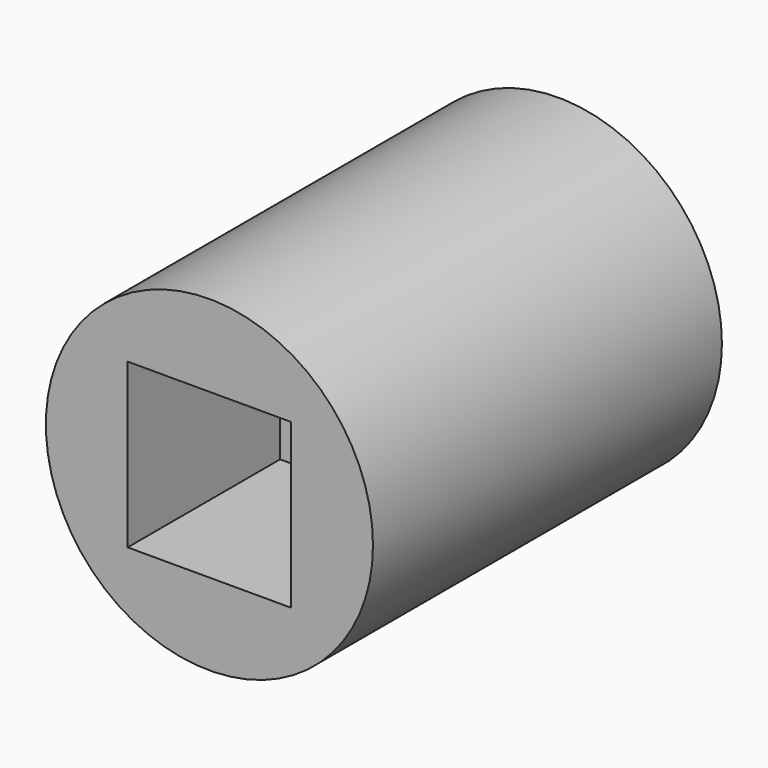
from build123d import *

# Parameters (mm, degrees)
F0_R     = 9.525
F1_DEPTH = 25.4
F3_DEPTH = 25.401
F4_DEPTH = 11.0998
F6_DEPTH = 9.525


with BuildPart() as f1:
    # F0 (on Front) → F1 (new body)
    with BuildSketch(Plane.XZ):
        Circle(F0_R)
    extrude(amount=-F1_DEPTH)

    # F2 (on Front) → F3 (cut, through all)
    with BuildSketch(Plane.XZ):
        with BuildLine():
            ThreePointArc((4.7625, 0), (3.367596, 3.367596), (0, 4.7625))
            ThreePointArc((0, 4.7625), (-3.367596, 3.367596), (-4.7625, 0))
            ThreePointArc((-4.7625, 0), (-3.367596, -3.367596), (0, -4.7625))
            ThreePointArc((0, -4.7625), (3.367596, -3.367596), (4.7625, 0))
        make_face()
    extrude(amount=-F3_DEPTH, mode=Mode.SUBTRACT)

    # F2 (on Front) → F4 (cut)
    with BuildSketch(Plane.XZ):
        with BuildLine():
            Line((4.7625, 0), (4.7625, 4.7625))
            Line((4.7625, 4.7625), (0, 4.7625))
            ThreePointArc((0, 4.7625), (3.367596, 3.367596), (4.7625, 0))
        make_face()
        with BuildLine():
            ThreePointArc((-4.7625, 0), (-3.367596, 3.367596), (0, 4.7625))
            Line((0, 4.7625), (-4.7625, 4.7625))
            Line((-4.7625, 4.7625), (-4.7625, 0))
        make_face()
        with BuildLine():
            Line((4.7625, -4.7625), (4.7625, 0))
            ThreePointArc((4.7625, 0), (3.367596, -3.367596), (0, -4.7625))
            Line((0, -4.7625), (4.7625, -4.7625))
        make_face()
        with BuildLine():
            ThreePointArc((0, -4.7625), (-3.367596, -3.367596), (-4.7625, 0))
            Line((-4.7625, 0), (-4.7625, -4.7625))
            Line((-4.7625, -4.7625), (0, -4.7625))
        make_face()
    extrude(amount=-F4_DEPTH, mode=Mode.SUBTRACT)

    # F5 (on face) → F6 (cut)
    with BuildSketch(Plane(origin=(0, 25.4, 0), x_dir=(-1, 0, 0), z_dir=(0, 1, 0))):
        Polygon((3.65125, 6.324151), (-3.65125, 6.324151), (-7.3025, 0), (-3.65125, -6.324151), (3.65125, -6.324151), (7.3025, 0), align=None)
    extrude(amount=-F6_DEPTH, mode=Mode.SUBTRACT)


solid = f1.part
